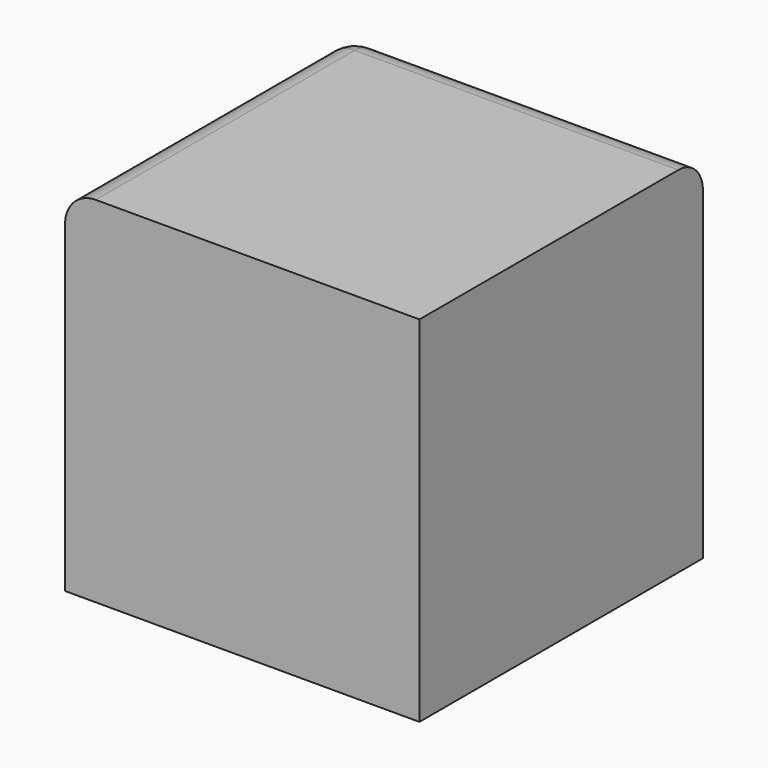
from build123d import *

# Parameters (mm, degrees)
SKETCH063_W             = 41.021
SKETCH063_H             = 41.021
PAD053_DEPTH            = 41.021
SKETCH064_W             = 25.908
SKETCH064_H             = 25.908
PAD054_DEPTH            = 6.35
FILLET009_R             = 3.556
FILLET008_R             = 3.556
BODY043_PLACEMENT_ANGLE = 180


with BuildPart() as part:
    # Sketch063 → Pad053 (new body)
    with BuildSketch(Plane.XZ):
        with Locations((20.5105, 20.5105)):
            Rectangle(SKETCH063_W, SKETCH063_H)
    extrude(amount=PAD053_DEPTH)

    # Sketch064 (on Face3 of Pad053) → Pad054 (join)
    with BuildSketch(Plane(origin=(0, 0, 0), x_dir=(1, 0, 0), z_dir=(0, 0, -1))):
        with Locations((20.507403, 20.507403)):
            Rectangle(SKETCH064_W, SKETCH064_H)
    extrude(amount=PAD054_DEPTH)

    # Fillet009
    fillet009_edges = [part.edges().sort_by_distance(p)[0] for p in [
        (7.553403, -20.507403, -6.35),
        (20.507403, -33.461403, -6.35),
        (20.507403, -7.553403, -6.35),
        (33.461403, -20.507403, -6.35),
    ]]
    fillet(fillet009_edges, radius=FILLET009_R)

    # Fillet008
    fillet008_edges = [part.edges().sort_by_distance(p)[0] for p in [
        (20.5105, -41.021, 41.021),
        (41.021, -41.021, 20.5105),
        (41.021, -20.5105, 41.021),
    ]]
    fillet(fillet008_edges, radius=FILLET008_R)


with BuildPart() as part_1:
    # Body043 placement: moved
    add(part.part.moved(Location((-2479.949241, 2438.775841, 2459.1772))).rotate(Axis((-2479.949241, 2438.775841, 2459.1772), (0, 0, 1)), BODY043_PLACEMENT_ANGLE))


solid = part_1.part
